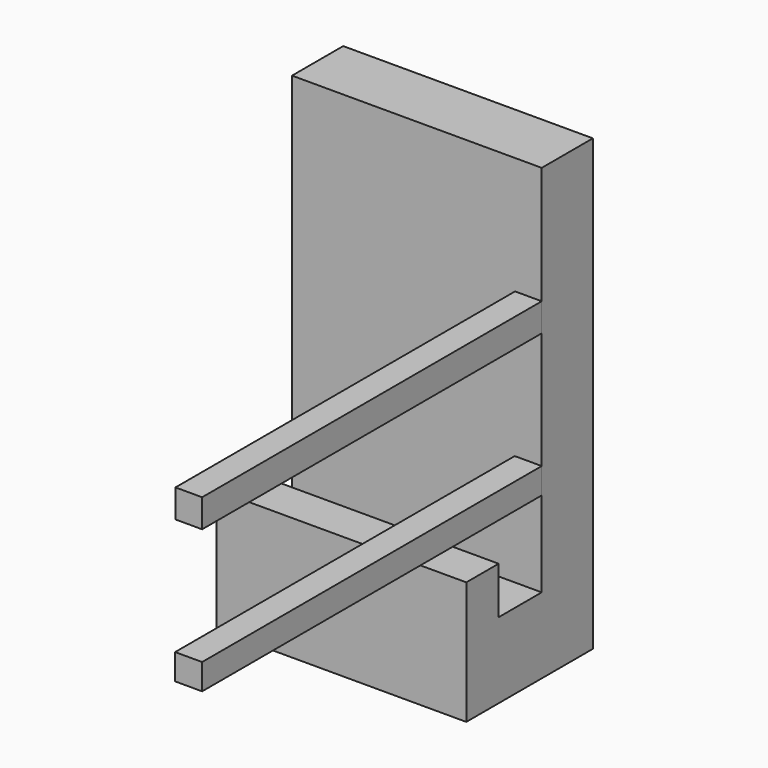
from build123d import *

# Parameters (mm, degrees)
F1_DEPTH = 50
F2_W     = 5.340787
F2_H     = 5.651236
F2_W_2   = 5.409539
F2_H_2   = 5.169495
F3_DEPTH = 85


with BuildPart() as f1:
    # F0 (on Right) → F1 (new body)
    with BuildSketch(Plane.YZ):
        Polygon((5.034999, -32.265302), (5.034999, 57.734698), (-7.772555, 57.734698), (-7.772555, -17.098464), (-18.55786, -17.098464), (-18.55786, -7.661321), (-26.64684, -7.661321), (-26.64684, -32.265302), align=None)
    extrude(amount=-F1_DEPTH)

    # F2 (on face) → F3 (join)
    with BuildSketch(Plane.XZ.offset(7.772555)):
        with Locations((-2.670393, 31.39282)):
            Rectangle(F2_W, F2_H)
        with Locations((-2.704769, 2.584747)):
            Rectangle(F2_W_2, F2_H_2)
    extrude(amount=F3_DEPTH)


solid = f1.part
